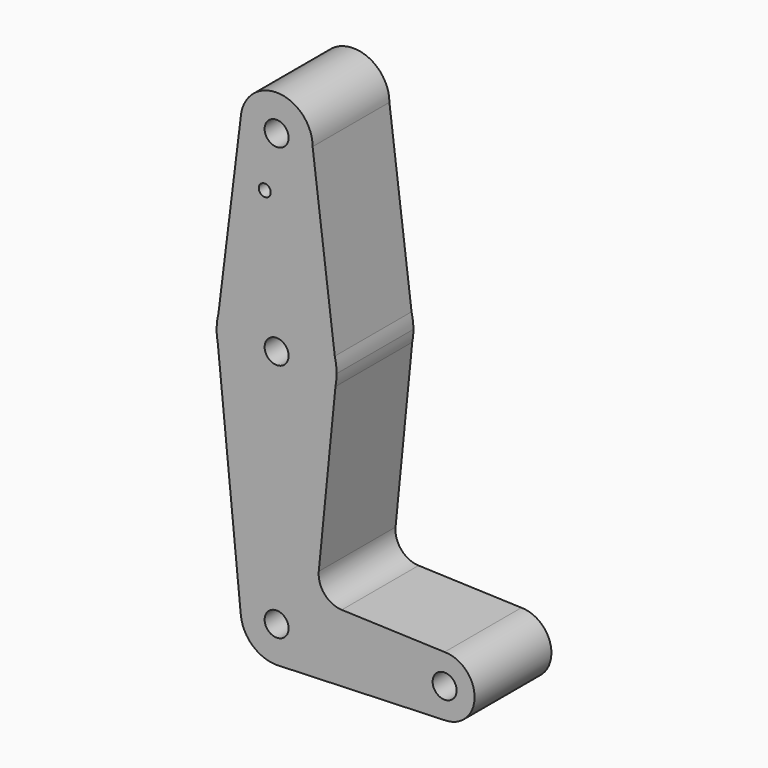
from build123d import *

# Parameters (mm, degrees)
F0_R     = 3.175
F0_R_2   = 1.5875
F1_DEPTH = 25.4


with BuildPart() as f1:
    # F0 (on Front) → F1 (new body)
    with BuildSketch(Plane.XZ):
        with BuildLine():
            ThreePointArc((-9.5081937086, 58.0158391523), (-0.2829133485, 47.9294646022), (9.525, 57.4502621022))
            ThreePointArc((9.525, 57.4502621022), (0.2829133485, 66.9710596023), (-9.5081937086, 58.0158391523))
        make_face()
        with Locations((0, 57.4502621022)):
            Circle(F0_R, mode=Mode.SUBTRACT)
        with BuildLine():
            Line((15.3865384615, 10.5579544099), (9.525, 57.4502621022))
            ThreePointArc((9.525, 57.4502621022), (-0.2829133485, 47.9294646022), (-9.5081937086, 58.0158391523))
            Line((-9.5081937086, 58.0158391523), (-15.393400304, 10.5308357814))
            ThreePointArc((-15.393400304, 10.5308357814), (-0.0139866445, 22.5252559408), (15.3865384615, 10.5579544099))
        make_face()
        with Locations((-3.1419943552, 43.1754621022)):
            Circle(F0_R_2, mode=Mode.SUBTRACT)
        with BuildLine():
            Line((15.875, 6.6502621022), (15.3865384615, 10.5579544099))
            ThreePointArc((15.3865384615, 10.5579544099), (-0.0139866445, 22.5252559408), (-15.393400304, 10.5308357814))
            Line((-15.393400304, 10.5308357814), (-15.8749991405, 6.6450380613))
            Line((-15.8749991405, 6.6450380613), (-15.5661926872, 3.5342919124))
            ThreePointArc((-15.5661926872, 3.5342919124), (-0.002485721, -9.2247377032), (15.5652161214, 3.5294173299))
            Line((15.5652161214, 3.5294173299), (15.875, 6.6502621022))
        make_face()
        with Locations((0, 6.6502621022)):
            Circle(F0_R, mode=Mode.SUBTRACT)
        with BuildLine():
            ThreePointArc((15.875, 6.6502621022), (15.7524112928, 8.6193135138), (15.3865384615, 10.5579544099))
            Line((15.3865384615, 10.5579544099), (15.875, 6.6502621022))
        make_face()
        with BuildLine():
            Line((-15.8749991405, 6.6450380613), (-15.393400304, 10.5308357814))
            ThreePointArc((-15.393400304, 10.5308357814), (-15.754461493, 8.6028419507), (-15.8749991405, 6.6450380613))
        make_face()
        with BuildLine():
            ThreePointArc((15.5652161214, 3.5294173299), (15.7973641936, 5.0821710538), (15.875, 6.6502621022))
            Line((15.875, 6.6502621022), (15.5652161214, 3.5294173299))
        make_face()
        with BuildLine():
            Line((-15.5661926872, 3.5342919124), (-15.8749991405, 6.6450380613))
            ThreePointArc((-15.8749991405, 6.6450380613), (-15.7973517175, 5.0820453721), (-15.5661926872, 3.5342919124))
        make_face()
        with BuildLine():
            Line((11.1487181344, -40.9635521522), (15.5652161214, 3.5294173299))
            ThreePointArc((15.5652161214, 3.5294173299), (-0.002485721, -9.2247377032), (-15.5661926872, 3.5342919124))
            Line((-15.5661926872, 3.5342919124), (-9.4784110305, -57.7906679359))
            ThreePointArc((-9.4784110305, -57.7906679359), (-0.4710413646, -47.33639227), (9.525, -56.8497378978))
            ThreePointArc((9.525, -56.8497378978), (6.9705567315, -63.341036986), (0.6773435479, -66.3506236838))
            Line((0.6773435479, -66.3506236838), (44.7324052746, -64.7822125124))
            ThreePointArc((44.7324052746, -64.7822125124), (36.5137564458, -56.9909628899), (44.45, -48.9122378978))
            Line((44.45, -48.9122378978), (17.2401500444, -47.9367114742))
            ThreePointArc((17.2401500444, -47.9367114742), (12.6853766448, -45.7683751299), (11.1487181344, -40.9635521522))
        make_face()
        with BuildLine():
            ThreePointArc((9.525, -56.8497378978), (-0.4710413646, -47.33639227), (-9.4784110305, -57.7906679359))
            ThreePointArc((-9.4784110305, -57.7906679359), (-6.393874662, -63.9097656461), (0, -66.3747378978))
            Line((0, -66.3747378978), (0.6773435479, -66.3506236838))
            ThreePointArc((0.6773435479, -66.3506236838), (6.9705567315, -63.341036986), (9.525, -56.8497378978))
        make_face()
        with Locations((0, -56.8497378978)):
            Circle(F0_R, mode=Mode.SUBTRACT)
        with BuildLine():
            Line((0.6773435479, -66.3506236838), (0, -66.3747378978))
            ThreePointArc((0, -66.3747378978), (0.3388863295, -66.3687074353), (0.6773435479, -66.3506236838))
        make_face()
        with BuildLine():
            ThreePointArc((52.3875, -56.8497378978), (50.0626600757, -51.2370778221), (44.45, -48.9122378978))
            ThreePointArc((44.45, -48.9122378978), (36.5137564458, -56.9909628899), (44.7324052746, -64.7822125124))
            ThreePointArc((44.7324052746, -64.7822125124), (50.1616327839, -62.3616483825), (52.3875, -56.8497378978))
        make_face()
        with Locations((44.45, -56.8497378978)):
            Circle(F0_R, mode=Mode.SUBTRACT)
    extrude(amount=F1_DEPTH)


solid = f1.part
